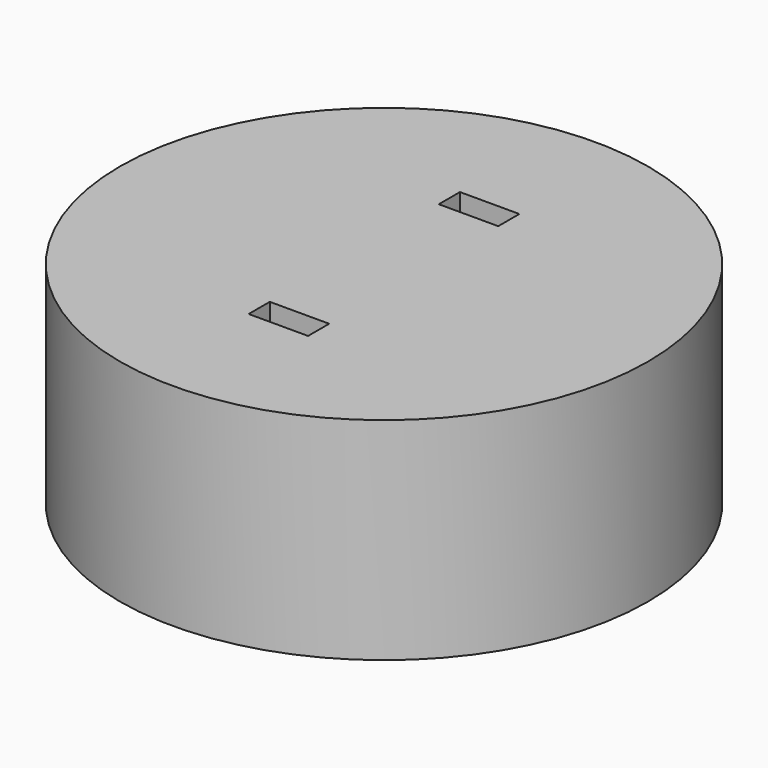
from build123d import *

# Parameters (mm, degrees)
F0_R      = 20
F1_DEPTH  = 16
F2_W      = 10
F2_H      = 20
F3_DEPTH  = 9
F4_W      = 4.5
F4_H      = 2
F5_DEPTH  = 7.001
F7_R      = 4
F7_R_2    = 3.8
F8_DEPTH  = 12.8
F10_DEPTH = 11.7


with BuildPart() as f1:
    # F0 (on Top) → F1 (new body)
    with BuildSketch(Plane.XY):
        Circle(F0_R)
    extrude(amount=F1_DEPTH)

    # F2 (on face) → F3 (cut)
    with BuildSketch(Plane(origin=(0, 0, 0), x_dir=(1, 0, 0), z_dir=(0, 0, -1))):
        Rectangle(F2_W, F2_H)
    extrude(amount=-F3_DEPTH, mode=Mode.SUBTRACT)

    # F4 (on face) → F5 (cut, through all)
    with BuildSketch(Plane(origin=(0, 0, 9), x_dir=(1, 0, 0), z_dir=(0, 0, -1))):
        with Locations((0, 9)):
            Rectangle(F4_W, F4_H)
        with Locations((0, -9)):
            Rectangle(F4_W, F4_H)
    extrude(amount=-F5_DEPTH, mode=Mode.SUBTRACT)

    # F7 (on offset) → F8 (cut)
    with BuildSketch(Plane.XY.offset(14)):
        with Locations((-13.818456, 0)):
            Circle(F7_R)
        with Locations((-13.818456, 0)):
            Circle(F7_R_2, mode=Mode.SUBTRACT)
    extrude(amount=-F8_DEPTH, mode=Mode.SUBTRACT)

    # F9 (on offset) → F10 (cut)
    with BuildSketch(Plane.XY.offset(14)):
        with BuildLine():
            Line((-26.818456, -6.657433), (-16.5516, -2.920603))
            ThreePointArc((-16.5516, -2.920603), (-9.818456, 0), (-16.5516, 2.920603))
            Line((-16.5516, 2.920603), (-26.818456, 6.657433))
            Line((-26.818456, 6.657433), (-26.818456, 0))
            Line((-26.818456, 0), (-26.818456, -6.657433))
        make_face()
    extrude(amount=-F10_DEPTH, mode=Mode.SUBTRACT)


solid = f1.part
